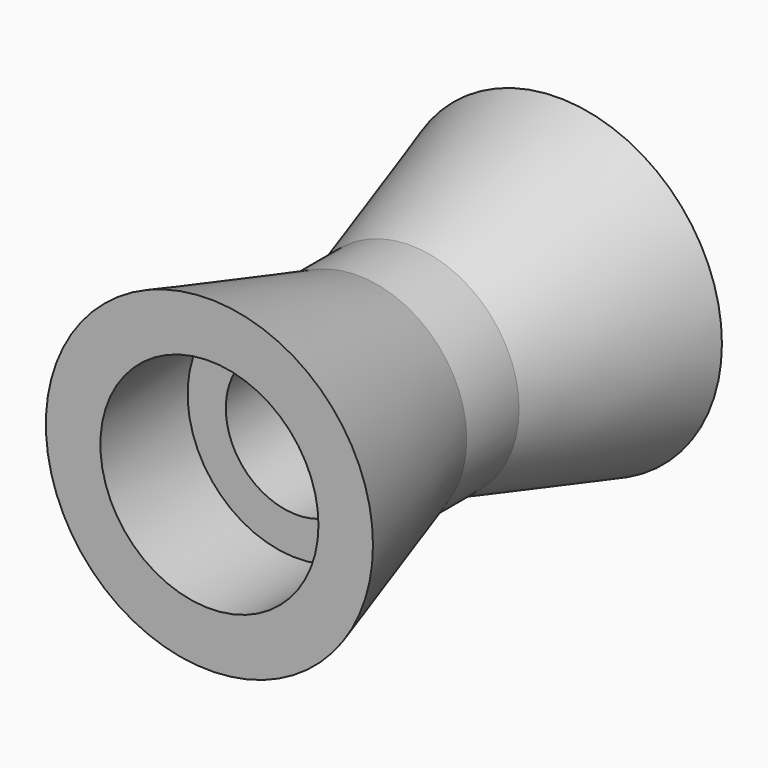
from build123d import *

# Parameters (mm, degrees)
F0_W           = 5
F0_H           = 3
F3_D           = 6.5
F3_CBORE_D     = 10
F3_CBORE_DEPTH = 5
F4_R           = 5
F4_R_2         = 3.25
F5_DEPTH       = 5


with BuildPart() as f1:
    # F0 (on Top) → F1 (revolve)
    with BuildSketch(Plane.XY):
        Polygon((0, 1.5), (5, 1.5), (7.5, 10), (0, 10), align=None)
        Polygon((0, -10), (7.5, -10), (5, -1.5), (0, -1.5), align=None)
        with Locations((2.5, 0)):
            Rectangle(F0_W, F0_H)
    revolve(axis=Axis((0, 0, 0), (0, -1, 0)))

    # F3 (through all)
    with Locations(Plane(origin=(0, 10, 0), x_dir=(-1, 0, 0), z_dir=(0, 1, 0))):
        with Locations((0, 0)):
            CounterBoreHole(F3_D / 2, F3_CBORE_D / 2, F3_CBORE_DEPTH)

    # F4 (on face) → F5 (cut)
    with BuildSketch(Plane.XZ.offset(10)):
        Circle(F4_R)
        Circle(F4_R_2, mode=Mode.SUBTRACT)
    extrude(amount=-F5_DEPTH, mode=Mode.SUBTRACT)


solid = f1.part
